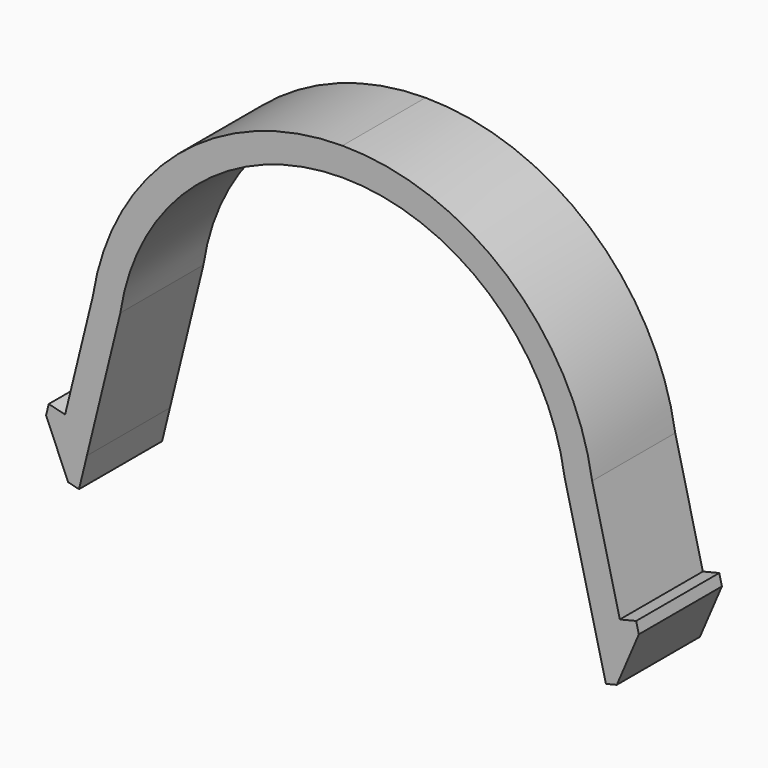
from build123d import *

# Parameters (mm, degrees)
F1_DEPTH = 3.7


with BuildPart() as f1:
    # F0 (on Front) → F1 (new body)
    with BuildSketch(Plane.XZ):
        with BuildLine():
            Line((0, 10.6), (0, 11.6))
            ThreePointArc((0, 11.6), (-5.857057, 9.433365), (-8.894091, 3.976641))
            Line((-8.894091, 3.976641), (-9.879779, -0.045725))
            Line((-9.879779, -0.045725), (-10.462536, 0.097081))
            Line((-10.462536, 0.097081), (-10.55774, -0.291424))
            Line((-10.55774, -0.291424), (-9.77304, -2.131056))
            Line((-9.77304, -2.131056), (-9.384535, -2.22626))
            Line((-9.384535, -2.22626), (-9.104897, -1.085122))
            Line((-9.104897, -1.085122), (-7.912193, 3.782031))
            ThreePointArc((-7.912193, 3.782031), (-5.222248, 8.660373), (0, 10.6))
        make_face()
        with BuildLine():
            ThreePointArc((8.894091, 3.976641), (5.857057, 9.433365), (0, 11.6))
            Line((0, 11.6), (0, 10.6))
            ThreePointArc((0, 10.6), (5.222248, 8.660373), (7.912193, 3.782031))
            Line((7.912193, 3.782031), (9.104897, -1.085122))
            Line((9.104897, -1.085122), (9.384535, -2.22626))
            Line((9.384535, -2.22626), (9.77304, -2.131056))
            Line((9.77304, -2.131056), (10.55774, -0.291424))
            Line((10.55774, -0.291424), (10.462536, 0.097081))
            Line((10.462536, 0.097081), (9.879779, -0.045725))
            Line((9.879779, -0.045725), (8.894091, 3.976641))
        make_face()
    extrude(amount=F1_DEPTH)


solid = f1.part
